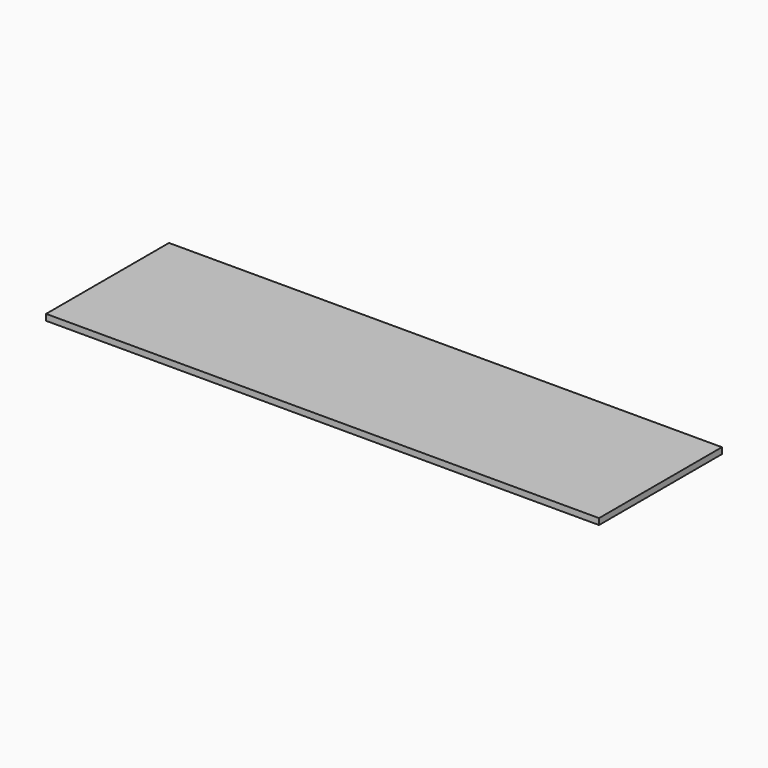
from build123d import *

# Parameters (mm, degrees)
SKETCH_W  = 0.9
SKETCH_H  = 0.25
PAD_DEPTH = 0.01


with BuildPart() as part:
    # Sketch → Pad (new body)
    with BuildSketch(Plane.XY):
        with Locations((0, -0.525)):
            Rectangle(SKETCH_W, SKETCH_H)
    extrude(amount=PAD_DEPTH)


solid = part.part
